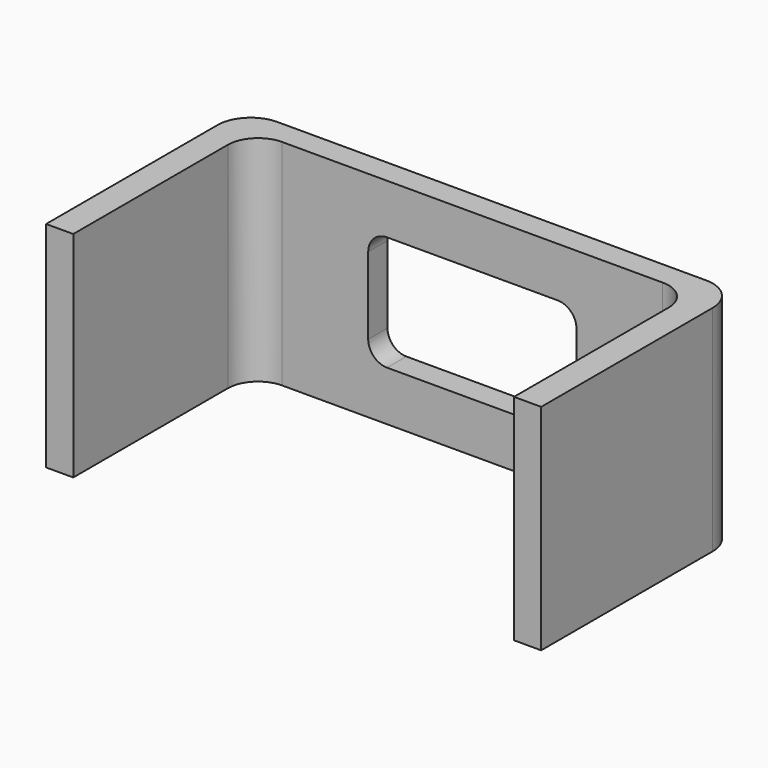
from build123d import *

# Parameters (mm, degrees)
F1_DEPTH = 9.017
F3_DEPTH = 10.288
F5_DEPTH = 2.54
F7_DEPTH = 9.017
F9_DEPTH = 25.4


with BuildPart() as f1:
    # F0 (on Top) → F1 (new body)
    with BuildSketch(Plane.XY):
        with BuildLine():
            Line((0, 9.017), (0, 0))
            Line((0, 0), (1.016, 0))
            Line((1.016, 0), (1.016, 8.128))
            ThreePointArc((1.016, 8.128), (1.387974, 9.026026), (2.286, 9.398))
            Line((2.286, 9.398), (18.288, 9.398))
            ThreePointArc((18.288, 9.398), (19.186026, 9.026026), (19.558, 8.128))
            Line((19.558, 8.128), (19.558, 0))
            Line((19.558, 0), (20.574, 0))
            Line((20.574, 0), (20.574, 9.017))
            ThreePointArc((20.574, 9.017), (20.202026, 9.915026), (19.304, 10.287))
            Line((19.304, 10.287), (1.27, 10.287))
            ThreePointArc((1.27, 10.287), (0.371974, 9.915026), (0, 9.017))
        make_face()
    extrude(amount=F1_DEPTH)

    # F2 (on face) → F3 (cut, through all)
    with BuildSketch(Plane(origin=(0, 10.287, 0), x_dir=(-1, 0, 0), z_dir=(0, 1, 0))):
        with BuildLine():
            Line((-13.87475, 2.0955), (-6.69925, 2.0955))
            ThreePointArc((-6.69925, 2.0955), (-6.137984, 2.327984), (-5.9055, 2.88925))
            Line((-5.9055, 2.88925), (-5.9055, 6.12775))
            ThreePointArc((-5.9055, 6.12775), (-6.137984, 6.689016), (-6.69925, 6.9215))
            Line((-6.69925, 6.9215), (-13.87475, 6.9215))
            ThreePointArc((-13.87475, 6.9215), (-14.436016, 6.689016), (-14.6685, 6.12775))
            Line((-14.6685, 6.12775), (-14.6685, 2.88925))
            ThreePointArc((-14.6685, 2.88925), (-14.436016, 2.327984), (-13.87475, 2.0955))
        make_face()
    extrude(amount=-F3_DEPTH, mode=Mode.SUBTRACT)

    # F4 (on face) → F5 (join)
    with BuildSketch(Plane.YZ.offset(20.574)):
        with BuildLine():
            Line((4.503683, 2.984615), (4.525844, 4.5085))
            Line((4.525844, 4.5085), (4.503683, 6.032385))
            ThreePointArc((4.503683, 6.032385), (3.385713, 7.047766), (2.345612, 5.952756))
            Line((2.345612, 5.952756), (2.366616, 4.5085))
            Line((2.366616, 4.5085), (2.345612, 3.064244))
            ThreePointArc((2.345612, 3.064244), (3.385713, 1.969234), (4.503683, 2.984615))
        make_face()
    extrude(amount=-F5_DEPTH)

    # F6 (on face) → F7 (join, through all)
    with BuildSketch(Plane(origin=(0, 0, 0), x_dir=(1, 0, 0), z_dir=(0, 0, -1))):
        with BuildLine():
            Line((20.574, 0), (20.574, -9.017))
            ThreePointArc((20.574, -9.017), (20.202026, -9.915026), (19.304, -10.287))
            Line((19.304, -10.287), (1.27, -10.287))
            ThreePointArc((1.27, -10.287), (0.371974, -9.915026), (0, -9.017))
            Line((0, -9.017), (0, 0))
            Line((0, 0), (-0.127, 0))
            Line((-0.127, 0), (-0.127, -9.017))
            ThreePointArc((-0.127, -9.017), (0.282172, -10.004828), (1.27, -10.414))
            Line((1.27, -10.414), (19.304, -10.414))
            ThreePointArc((19.304, -10.414), (20.291828, -10.004828), (20.701, -9.017))
            Line((20.701, -9.017), (20.701, 0))
            Line((20.701, 0), (20.574, 0))
        make_face()
    extrude(amount=-F7_DEPTH)

    # F8 (on face) → F9 (cut)
    with BuildSketch(Plane.XZ.offset(-10.287)):
        with BuildLine():
            ThreePointArc((5.9055, 2.88925), (6.137984, 2.327984), (6.69925, 2.0955))
            Line((6.69925, 2.0955), (13.87475, 2.0955))
            ThreePointArc((13.87475, 2.0955), (14.436016, 2.327984), (14.6685, 2.88925))
            Line((14.6685, 2.88925), (14.6685, 6.12775))
            ThreePointArc((14.6685, 6.12775), (14.436016, 6.689016), (13.87475, 6.9215))
            Line((13.87475, 6.9215), (6.69925, 6.9215))
            ThreePointArc((6.69925, 6.9215), (6.137984, 6.689016), (5.9055, 6.12775))
            Line((5.9055, 6.12775), (5.9055, 2.88925))
        make_face()
    extrude(amount=-F9_DEPTH, mode=Mode.SUBTRACT)


solid = f1.part
